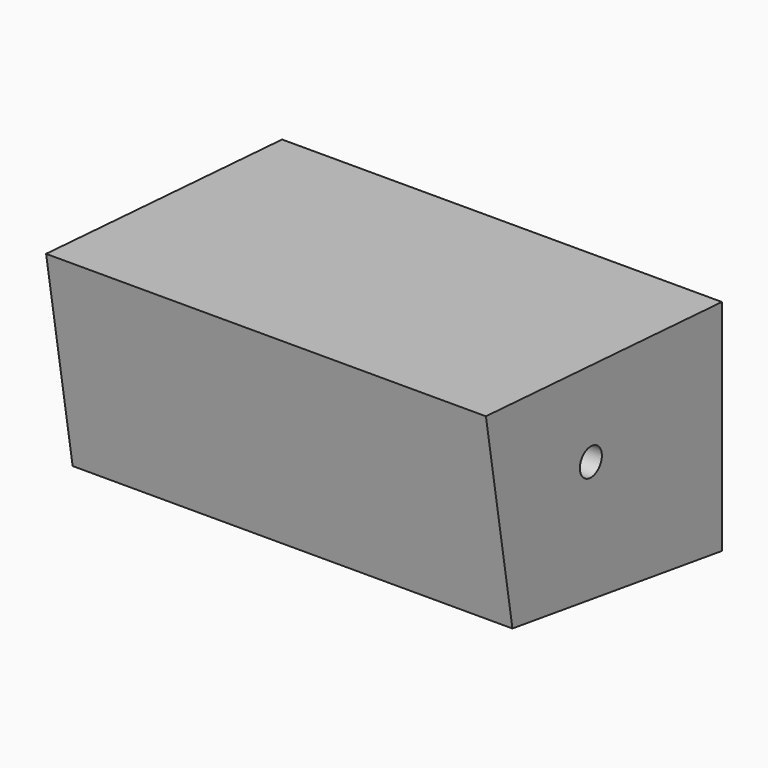
from build123d import *

# Parameters (mm, degrees)
F1_DEPTH = 101.346
F2_R     = 9.164769
F3_DEPTH = 113.284
F5_D     = 6.35


with BuildPart() as f1:
    # F0 (on Right) → F1 (new body)
    with BuildSketch(Plane.YZ):
        Polygon((18.714909, 17.103914), (-49.26987, 21.547778), (-41.631136, -24.609784), (18.714909, -33.40904), align=None)
    extrude(amount=F1_DEPTH)

    # F2 (on face) → F3 (join)
    with BuildSketch(Plane.YZ.offset(101.346)):
        with Locations((-17.187657, -1.531003)):
            Circle(F2_R)
    extrude(amount=-F3_DEPTH)

    # F5 (through all)
    with Locations(Plane(origin=(-11.938, 0, 0), x_dir=(0, -1, 0), z_dir=(-1, 0, 0))):
        with Locations((19.033102, 0)):
            Hole(F5_D / 2)


solid = f1.part
